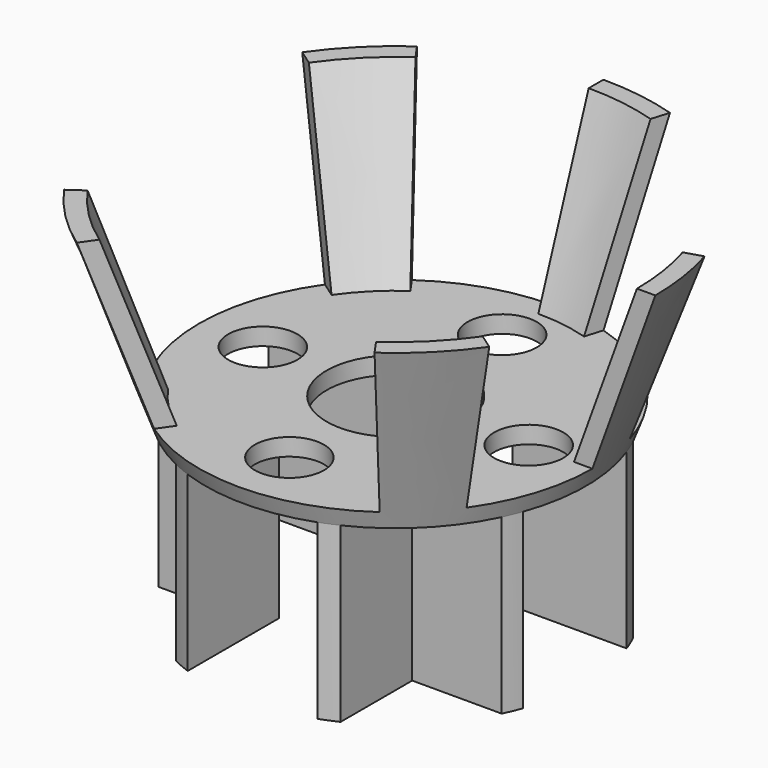
from build123d import *

# Parameters (mm, degrees)
F3_T      = -3.175
F5_DEPTH  = 31.75
F7_DEPTH  = 31.75
F9_DEPTH  = 31.75
F10_R     = 12.7
F11_DEPTH = 25.4
F12_W     = 12.7
F12_H     = 6.35
F13_DEPTH = 7.62
F15_DEPTH = 6.35
F16_R     = 6.35
F17_DEPTH = 25.4


with BuildPart() as f2:
    # F0 (on Front) → F2 (revolve)
    with BuildSketch(Plane.XZ):
        Polygon((-34.925, 0), (0, 0), (0, 34.925), (-47.625, 34.925), align=None)
    revolve(axis=Axis((0, 0, 24.3954025209), (0, 0, 1)))

    # F3
    f3_openings = [f2.faces().sort_by_distance(p)[0] for p in [
        (0, 0, 34.925),
    ]]
    offset(amount=F3_T, openings=f3_openings)

    # F4 (on face) → F5 (join)
    with BuildSketch(Plane(origin=(0, 0, 0), x_dir=(1, 0, 0), z_dir=(0, 0, -1))):
        with BuildLine():
            Line((-32.8328621344, 11.90625), (-11.90625, 11.90625))
            Line((-11.90625, 11.90625), (-11.90625, 32.8328621344))
            ThreePointArc((-11.90625, 32.8328621344), (-13.5101727919, 32.2060686227), (-15.08125, 31.5009765474))
            Line((-15.08125, 31.5009765474), (-15.08125, 15.08125))
            Line((-15.08125, 15.08125), (-31.5009765474, 15.08125))
            ThreePointArc((-31.5009765474, 15.08125), (-32.2060686227, 13.5101727919), (-32.8328621344, 11.90625))
        make_face()
        with BuildLine():
            Line((-11.90625, -32.8328621344), (-11.90625, -11.90625))
            Line((-11.90625, -11.90625), (-32.8328621344, -11.90625))
            ThreePointArc((-32.8328621344, -11.90625), (-32.2060686227, -13.5101727919), (-31.5009765474, -15.08125))
            Line((-31.5009765474, -15.08125), (-15.08125, -15.08125))
            Line((-15.08125, -15.08125), (-15.08125, -31.5009765474))
            ThreePointArc((-15.08125, -31.5009765474), (-13.5101727919, -32.2060686227), (-11.90625, -32.8328621344))
        make_face()
        with BuildLine():
            Line((32.8328621344, -11.90625), (11.90625, -11.90625))
            Line((11.90625, -11.90625), (11.90625, -32.8328621344))
            ThreePointArc((11.90625, -32.8328621344), (13.5101727919, -32.2060686227), (15.08125, -31.5009765474))
            Line((15.08125, -31.5009765474), (15.08125, -15.08125))
            Line((15.08125, -15.08125), (31.5009765474, -15.08125))
            ThreePointArc((31.5009765474, -15.08125), (32.2060686227, -13.5101727919), (32.8328621344, -11.90625))
        make_face()
        with BuildLine():
            Line((11.90625, 32.8328621344), (11.90625, 11.90625))
            Line((11.90625, 11.90625), (32.8328621344, 11.90625))
            ThreePointArc((32.8328621344, 11.90625), (32.2060686227, 13.5101727919), (31.5009765474, 15.08125))
            Line((31.5009765474, 15.08125), (15.08125, 15.08125))
            Line((15.08125, 15.08125), (15.08125, 31.5009765474))
            ThreePointArc((15.08125, 31.5009765474), (13.5101727919, 32.2060686227), (11.90625, 32.8328621344))
        make_face()
    extrude(amount=F5_DEPTH)

    # F6 (on face) → F7 (cut, through all)
    with BuildSketch(Plane.XY.offset(34.925)):
        Polygon((15.7154482119, 51.6364726961), (0, 0), (51.6364726961, 15.7154482119), (33.675960454, 33.675960454), align=None)
    extrude(amount=-F7_DEPTH, mode=Mode.SUBTRACT)

    # F8 (on face) → F9 (cut, through all)
    with BuildSketch(Plane.XY.offset(34.925)):
        with BuildLine():
            Line((-27.3165777812, 39.0121161093), (0, 0))
            Line((0, 0), (0, 47.625))
            ThreePointArc((0, 47.625), (-14.3211137014, 45.4207697794), (-27.3165777812, 39.0121161093))
        make_face()
        with BuildLine():
            Line((-39.0121161093, -27.3165777812), (0, 0))
            Line((0, 0), (-39.0121161093, 27.3165777812))
            ThreePointArc((-39.0121161093, 27.3165777812), (-47.625, 0), (-39.0121161093, -27.3165777812))
        make_face()
        with BuildLine():
            Line((27.3165777812, -39.0121161093), (0, 0))
            Line((0, 0), (-27.3165777812, -39.0121161093))
            ThreePointArc((-27.3165777812, -39.0121161093), (0, -47.625), (27.3165777812, -39.0121161093))
        make_face()
        with BuildLine():
            Line((47.625, 0), (0, 0))
            Line((0, 0), (39.0121161093, -27.3165777812))
            ThreePointArc((39.0121161093, -27.3165777812), (45.4207697794, -14.3211137014), (47.625, 0))
        make_face()
    extrude(amount=-F9_DEPTH, mode=Mode.SUBTRACT)

    # F10 (on face) → F11 (cut)
    with BuildSketch(Plane.XY.offset(3.175)):
        Circle(F10_R)
    extrude(amount=-F11_DEPTH, mode=Mode.SUBTRACT)

    # F12 (on face) → F13 (join)
    with BuildSketch(Plane.YZ.offset(15.08125)):
        with Locations((23.2911132737, -15.875)):
            Rectangle(F12_W, F12_H)
    extrude(amount=F13_DEPTH)

    # F14 (on face) → F15 (cut, through all)
    with BuildSketch(Plane(origin=(0, 0, -19.05), x_dir=(1, 0, 0), z_dir=(0, 0, -1))):
        with BuildLine():
            Line((16.1188345795, -28.8882274593), (20.7059307299, -22.1824388165))
            ThreePointArc((20.7059307299, -22.1824388165), (20.8007868478, -19.6961173416), (18.5999628156, -18.5354426503))
            Line((18.5999628156, -18.5354426503), (15.08125, -18.5354426503))
            Line((15.08125, -18.5354426503), (15.08125, -29.6411132737))
            Line((15.08125, -29.6411132737), (15.885964036, -29.6411132737))
            ThreePointArc((15.885964036, -29.6411132737), (15.9455112052, -29.2470746527), (16.1188345795, -28.8882274593))
        make_face()
        with BuildLine():
            ThreePointArc((19.52625, -16.9411132737), (21.7713140303, -17.8710492434), (22.70125, -20.1161132737))
            Line((22.70125, -20.1161132737), (22.70125, -16.9411132737))
            Line((22.70125, -16.9411132737), (19.52625, -16.9411132737))
        make_face()
        with BuildLine():
            Line((22.1467963251, -22.8878208585), (17.527205209, -29.6411132737))
            Line((17.527205209, -29.6411132737), (22.70125, -29.6411132737))
            Line((22.70125, -29.6411132737), (22.70125, -21.0952355863))
            ThreePointArc((22.70125, -21.0952355863), (22.5594710257, -22.0334227792), (22.1467963251, -22.8878208585))
        make_face()
    extrude(amount=-F15_DEPTH, mode=Mode.SUBTRACT)

    # F16 (on face) → F17 (cut)
    with BuildSketch(Plane.XY.offset(3.175)):
        with Locations((-24.3955454545, 0)):
            Circle(F16_R)
        with Locations((0, -24.3955454545)):
            Circle(F16_R)
        with Locations((24.3955454545, 0)):
            Circle(F16_R)
        with Locations((0, 24.3955454545)):
            Circle(F16_R)
    extrude(amount=-F17_DEPTH, mode=Mode.SUBTRACT)


solid = f2.part
